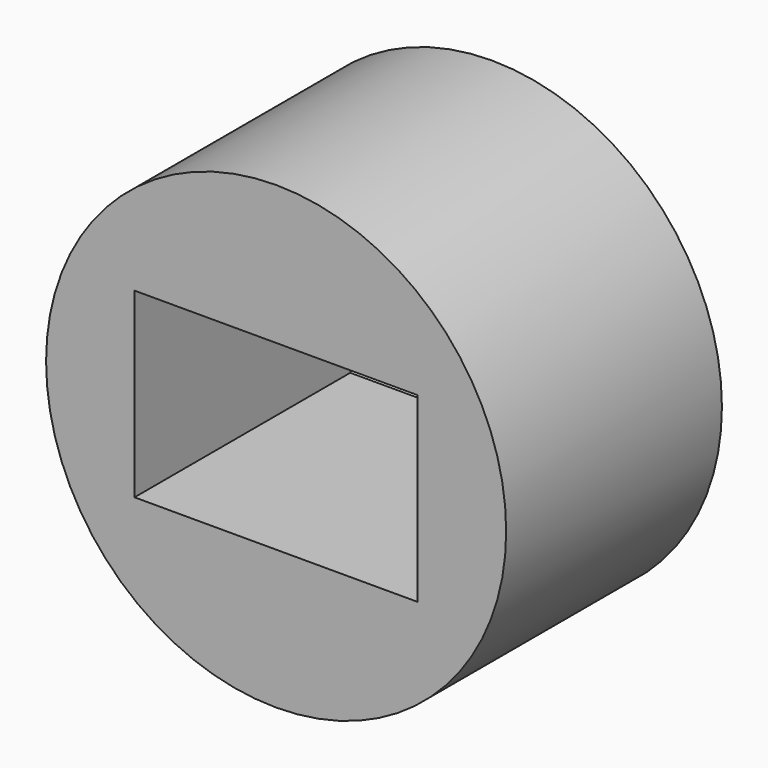
from build123d import *

# Parameters (mm, degrees)
F0_R     = 45.419466
F0_W     = 55.91673
F0_H     = 35.930696
F1_DEPTH = 53.24699


with BuildPart() as f1:
    # F0 (on Front) → F1 (new body)
    with BuildSketch(Plane.XZ):
        Circle(F0_R)
        Rectangle(F0_W, F0_H, mode=Mode.SUBTRACT)
    extrude(amount=F1_DEPTH)


solid = f1.part
